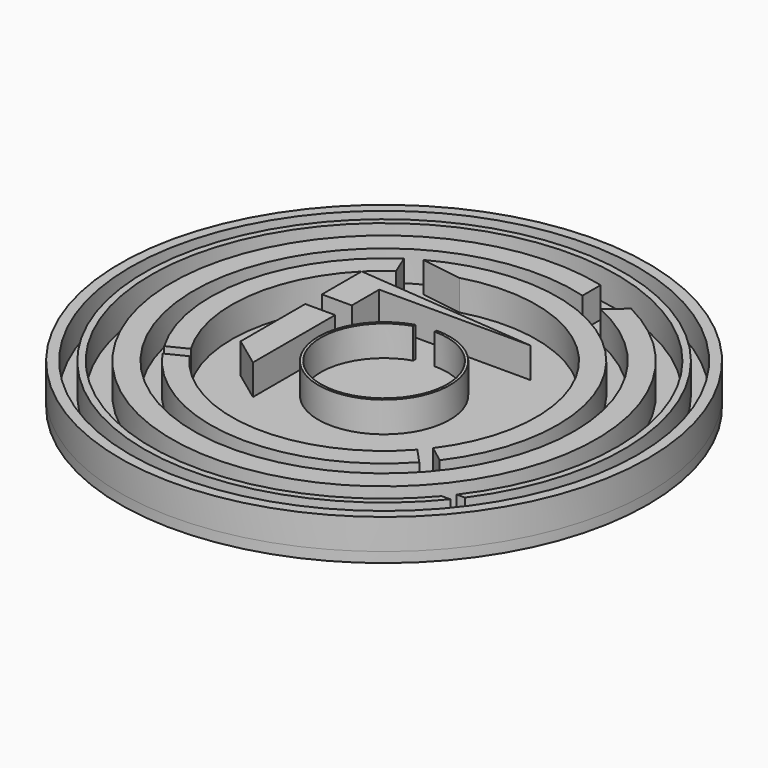
from build123d import *

# Parameters (mm, degrees)
F0_R     = 52
F0_R_2   = 50
F1_DEPTH = 6
F2_R     = 52
F3_DEPTH = 2


with BuildPart() as f1:
    # F0 (on Top) → F1 (new body)
    with BuildSketch(Plane.XY):
        Circle(F0_R)
        Circle(F0_R_2, mode=Mode.SUBTRACT)
    extrude(amount=F1_DEPTH)


with BuildPart() as f1b:
    # F0 (on Top) → F1, piece 2 (new body)
    with BuildSketch(Plane.XY):
        with BuildLine():
            Line((36.5417559583, -27.7857985348), (38.1620916175, -27.7857985348))
            ThreePointArc((38.1620916175, -27.7857985348), (-37.4674949788, 28.7155473021), (36.7502520643, -29.6279396862))
            Line((36.7502520643, -29.6279396862), (35.0647361131, -29.6279396862))
            ThreePointArc((35.0647361131, -29.6279396862), (-35.8150917589, 28.7163669539), (36.5417559583, -27.7857985348))
        make_face()
    extrude(amount=F1_DEPTH)


with BuildPart() as f1c:
    # F0 (on Top) → F1, piece 3 (new body)
    with BuildSketch(Plane.XY):
        with BuildLine():
            Line((10.2422153577, 36.061835485), (10.2422153577, 40.5318301831))
            ThreePointArc((10.2422153577, 40.5318301831), (-14.6147039534, -39.1681332435), (18.8117697835, 37.33429457))
            Line((18.8117697835, 37.33429457), (15.1811125025, 34.2767089605))
            ThreePointArc((15.1811125025, 34.2767089605), (-12.7429615494, -35.2558631284), (10.2422153577, 36.061835485))
        make_face()
    extrude(amount=F1_DEPTH)


with BuildPart() as f1d:
    # F0 (on Top) → F1, piece 4 (new body)
    with BuildSketch(Plane.XY):
        with BuildLine():
            ThreePointArc((22.4622340584, -19.8858754171), (-1.5300300705, -29.9609580618), (-24.371140327, -17.4942138767))
            Line((-24.371140327, -17.4942138767), (-28.1714358548, -19.3700175615))
            ThreePointArc((-28.1714358548, -19.3700175615), (-2.3013146195, -34.1105750388), (25.3143372963, -22.9785052973))
            Line((25.3143372963, -22.9785052973), (22.4622340584, -19.8858754171))
        make_face()
    extrude(amount=F1_DEPTH)


with BuildPart() as f1e:
    # F0 (on Top) → F1, piece 5 (new body)
    with BuildSketch(Plane.XY):
        with BuildLine():
            ThreePointArc((-21.3097310738, 21.1162345498), (-19.3625345272, 22.9148915922), (-17.2641651741, 24.5346408337))
            Line((-17.2641651741, 24.5346408337), (-18.8908576965, 28.4949622555))
            ThreePointArc((-18.8908576965, 28.4949622555), (-33.3055166437, 7.7181564864), (-29.4989385309, -17.2812037775))
            Line((-29.4989385309, -17.2812037775), (-25.7324537288, -15.4220888695))
            ThreePointArc((-25.7324537288, -15.4220888695), (-29.7826133394, 3.6049885822), (-21.3097310738, 21.1162345498))
        make_face()
    extrude(amount=F1_DEPTH)


with BuildPart() as f1f:
    # F0 (on Top) → F1, piece 6 (new body)
    with BuildSketch(Plane.XY):
        with BuildLine():
            ThreePointArc((27.3593251844, -20.5010903102), (25.8789836039, 22.3406711198), (-16.2877984734, 30.0588589162))
            Line((-16.2877984734, 30.0588589162), (-8.2441801205, 28.8449907981))
            ThreePointArc((-8.2441801205, 28.8449907981), (24.698796024, 17.0284900965), (24.0275514696, -17.9632060161))
            Line((24.0275514696, -17.9632060161), (27.3593251844, -20.5010903102))
        make_face()
    extrude(amount=F1_DEPTH)


with BuildPart() as f1g:
    # F0 (on Top) → F1, piece 7 (new body)
    with BuildSketch(Plane.XY):
        Polygon((-8.1836236641, 19.998456305), (-21.3097310738, 21.1162345498), (-21.3097310738, 11.3307982683), (-15.4272001237, 11.3307982683), (-15.4272001237, 18.0801004171), (-8.1836236641, 18.0801004171), (-0.8972157375, 18.0801004171), (-0.5501859705, 18.0801004171), (14.3436938524, 18.0801004171), (-0.8972157375, 19.3779685999), align=None)
    extrude(amount=F1_DEPTH)


with BuildPart() as f1h:
    # F0 (on Top) → F1, piece 8 (new body)
    with BuildSketch(Plane.XY):
        Polygon((-21.3097310738, 7.2259628214), (-21.3097310738, -8.6760176346), (-15.4272001237, -13.0097549409), (-15.4272001237, 7.2259628214), align=None)
    extrude(amount=F1_DEPTH)


with BuildPart() as f1i:
    # F0 (on Top) → F1, piece 9 (new body)
    with BuildSketch(Plane.XY):
        with BuildLine():
            ThreePointArc((0, 12.4538803561), (1.9067466055, -12.3070489276), (-3.7685320713, 11.8700169314))
            Line((-3.7685320713, 11.8700169314), (-3.7685320713, 12.3935942881))
            ThreePointArc((-3.7685320713, 12.3935942881), (1.9049773177, -12.8130431502), (0, 12.953880243))
            Line((0, 12.953880243), (0, 12.4538803561))
        make_face()
    extrude(amount=F1_DEPTH)


with BuildPart() as f3:
    # F2 (on Top) → F3 (new body)
    with BuildSketch(Plane.XY):
        Circle(F2_R)
    extrude(amount=-F3_DEPTH)


solid = Compound([f1.part, f1b.part, f1c.part, f1d.part, f1e.part, f1f.part, f1g.part, f1h.part, f1i.part, f3.part])
